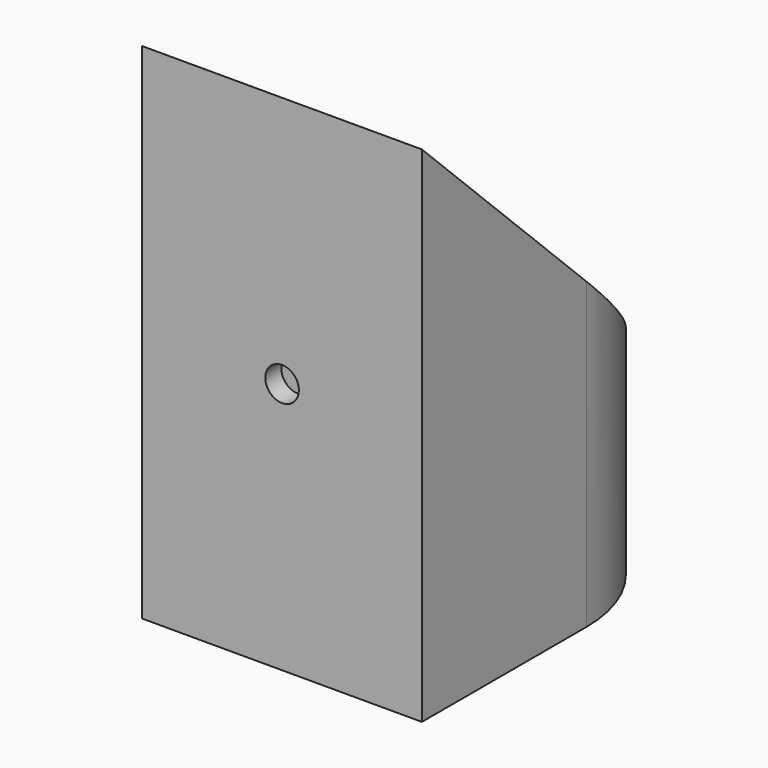
from build123d import *

# Parameters (mm, degrees)
SKETCH_R        = 14.25
PAD_DEPTH       = 60
SKETCH001_W     = 28.5
SKETCH001_H     = 5.45
POCKET_DEPTH    = 60.001
SKETCH002_R     = 2
POCKET001_DEPTH = 2.4
POCKET002_DEPTH = 33.301
SKETCH004_R     = 2
POCKET003_DEPTH = 33.301
CHAMFER_SIZE2   = 2
CHAMFER_SIZE    = 2


with BuildPart() as part:
    # Sketch → Pad (new body)
    with BuildSketch(Plane.XY):
        with BuildLine():
            Line((0, 0), (0, 24.5))
            ThreePointArc((33.3, 24.5), (16.65, 41.15), (0, 24.5))
            Line((33.3, 24.5), (33.3, 0))
            Line((33.3, 0), (0, 0))
        make_face()
        with Locations((16.65, 24.5)):
            Circle(SKETCH_R, mode=Mode.SUBTRACT)
    extrude(amount=PAD_DEPTH)

    # Sketch001 (on Face7 of Pad) → Pocket (cut, through all)
    with BuildSketch(Plane.XY.offset(60)):
        with Locations((16.65, 5.125)):
            Rectangle(SKETCH001_W, SKETCH001_H)
    extrude(amount=-POCKET_DEPTH, mode=Mode.SUBTRACT)

    # Sketch002 (on Face2 of Pocket) → Pocket001 (cut)
    with BuildSketch(Plane.XZ):
        with Locations((16.65, 30)):
            Circle(SKETCH002_R)
    extrude(amount=-POCKET001_DEPTH, mode=Mode.SUBTRACT)

    # Sketch003 (on DatumPlane) → Pocket002 (cut, through all)
    with BuildSketch(Plane.YZ.offset(33.3)):
        Polygon((0, 60), (41.15, 20), (41.15, 60), align=None)
    extrude(amount=-POCKET002_DEPTH, mode=Mode.SUBTRACT)

    # Sketch004 (on Face9 of Pocket002) → Pocket003 (cut, through all)
    with BuildSketch(Plane.XZ.offset(-7.85)):
        with Locations((16.65, 10)):
            Circle(SKETCH004_R)
    extrude(amount=-POCKET003_DEPTH, mode=Mode.SUBTRACT)

    # Chamfer
    chamfer_edges = [part.edges().sort_by_distance(p)[0] for p in [
        (14.65, 41.029443, 10),
    ]]
    chamfer_side = part.faces().sort_by_distance((16.65, 41.15, 18.092345))[0]
    chamfer(chamfer_edges, length=CHAMFER_SIZE, length2=CHAMFER_SIZE2, reference=chamfer_side)


solid = part.part
